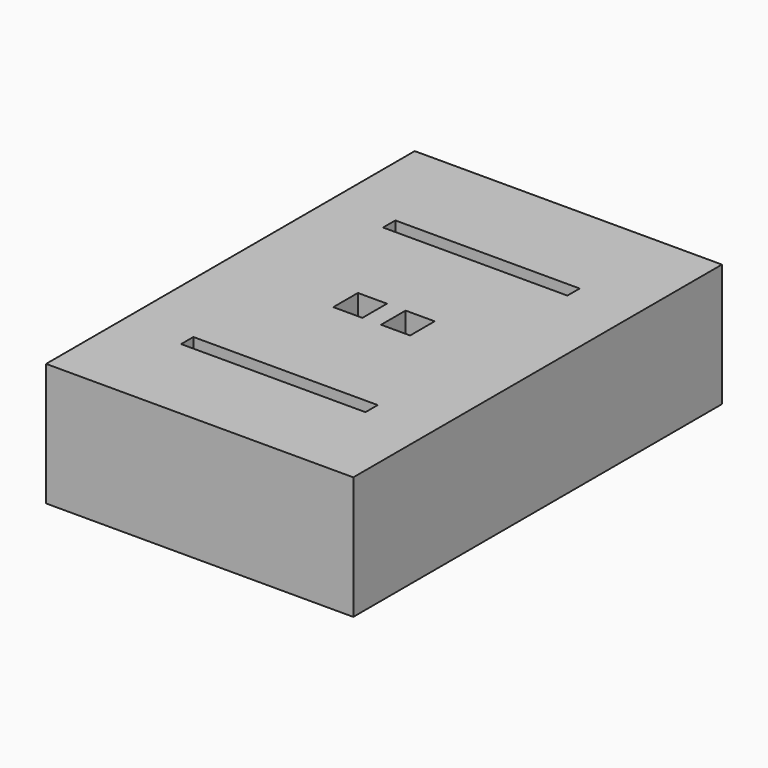
from build123d import *

# Parameters (mm, degrees)
F0_W     = 100
F0_H     = 150
F0_W_2   = 60
F0_H_2   = 5
F0_W_3   = 6.072186
F0_H_3   = 10
F1_DEPTH = 40


with BuildPart() as f1:
    # F0 (on Top) → F1 (new body)
    with BuildSketch(Plane.XY):
        with Locations((-55.840638, 20.854278)):
            Rectangle(F0_W, F0_H)
        Polygon((-43.340638, 25.854278), (-43.340638, 15.854278), (-52.804545, 15.854278), (-58.876731, 15.854278), (-68.340638, 15.854278), (-68.340638, 25.854278), (-58.876731, 25.854278), (-52.804545, 25.854278), align=None, mode=Mode.SUBTRACT)
        with Locations((-55.840638, -21.700071)):
            Rectangle(F0_W_2, F0_H_2, mode=Mode.SUBTRACT)
        with Locations((-55.840638, 60.473844)):
            Rectangle(F0_W_2, F0_H_2, mode=Mode.SUBTRACT)
        with Locations((-55.840638, 20.854278)):
            Rectangle(F0_W_3, F0_H_3)
    extrude(amount=-F1_DEPTH)


solid = f1.part
